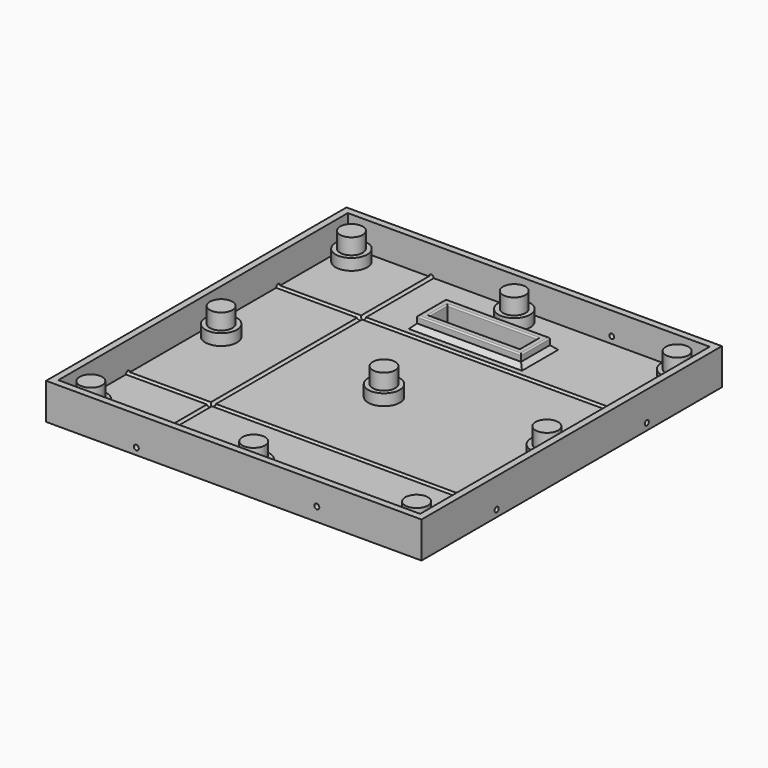
from build123d import *

# Parameters (mm, degrees)
SKETCH018_W     = 166
SKETCH018_H     = 166
PAD009_DEPTH    = 16
SKETCH019_W     = 160
SKETCH019_H     = 160
POCKET009_DEPTH = 13
SKETCH020_R     = 5
PAD010_DEPTH    = 12
SKETCH021_W     = 40
SKETCH021_H     = 10
POCKET010_DEPTH = 5
SKETCH022_W     = 46
SKETCH022_H     = 16
SKETCH022_W_2   = 40
SKETCH022_H_2   = 10
PAD011_DEPTH    = 5
CHAMFER001_SIZE = 2
FILLET004_R     = 0.6
SKETCH023_R     = 7
PAD012_DEPTH    = 5
SKETCH024_R     = 1.1
POCKET011_DEPTH = 166.001
SKETCH025_R     = 1.1
POCKET012_DEPTH = 167


with BuildPart() as part:
    # Sketch018 → Pad009 (new body)
    with BuildSketch(Plane.XY):
        with Locations((83, 83)):
            Rectangle(SKETCH018_W, SKETCH018_H)
    extrude(amount=PAD009_DEPTH)

    # Sketch019 (on Face6 of Pad009) → Pocket009 (cut)
    with BuildSketch(Plane.XY.offset(16)):
        with Locations((83, 83)):
            Rectangle(SKETCH019_W, SKETCH019_H)
    extrude(amount=-POCKET009_DEPTH, mode=Mode.SUBTRACT)

    # Sketch020 (on Face11 of Pocket009) → Pad010 (join)
    with BuildSketch(Plane.XY.offset(3)):
        with Locations((11, 155)):
            Circle(SKETCH020_R)
        with Locations((83, 155)):
            Circle(SKETCH020_R)
        with Locations((155, 155)):
            Circle(SKETCH020_R)
        with Locations((11, 83)):
            Circle(SKETCH020_R)
        with Locations((83, 83)):
            Circle(SKETCH020_R)
        with Locations((155, 83)):
            Circle(SKETCH020_R)
        with Locations((11, 11)):
            Circle(SKETCH020_R)
        with Locations((83, 11)):
            Circle(SKETCH020_R)
        with Locations((155, 11)):
            Circle(SKETCH020_R)
    extrude(amount=PAD010_DEPTH)

    # Sketch021 (on Face11 of Pad010) → Pocket010 (cut)
    with BuildSketch(Plane.XY.offset(3)):
        with Locations((83, 138)):
            Rectangle(SKETCH021_W, SKETCH021_H)
    extrude(amount=-POCKET010_DEPTH, mode=Mode.SUBTRACT)

    # Sketch022 (on Face15 of Pocket010) → Pad011 (join)
    with BuildSketch(Plane.XY.offset(3)):
        with Locations((83, 138)):
            Rectangle(SKETCH022_W, SKETCH022_H)
        with Locations((83, 138)):
            Rectangle(SKETCH022_W_2, SKETCH022_H_2, mode=Mode.SUBTRACT)
    extrude(amount=PAD011_DEPTH)

    # Chamfer001
    chamfer001_edges = [part.edges().sort_by_distance(p)[0] for p in [
        (83, 130, 3),
        (60, 138, 3),
        (106, 138, 3),
        (83, 146, 3),
    ]]
    chamfer(chamfer001_edges, length=CHAMFER001_SIZE)

    # Fillet004
    fillet004_edges = [part.edges().sort_by_distance(p)[0] for p in [
        (83, 146, 8),
        (106, 138, 8),
        (83, 130, 8),
        (60, 138, 8),
        (83, 143, 8),
        (103, 138, 8),
        (83, 133, 8),
        (63, 138, 8),
    ]]
    fillet(fillet004_edges, radius=FILLET004_R)

    # Sketch023 (on Face11 of Fillet004) → Pad012 (join)
    with BuildSketch(Plane.XY.offset(3)):
        with Locations((11, 155)):
            Circle(SKETCH023_R)
        with Locations((83, 155)):
            Circle(SKETCH023_R)
        with Locations((155, 155)):
            Circle(SKETCH023_R)
        with Locations((11, 83)):
            Circle(SKETCH023_R)
        with Locations((83, 83)):
            Circle(SKETCH023_R)
        with Locations((155, 83)):
            Circle(SKETCH023_R)
        with Locations((11, 11)):
            Circle(SKETCH023_R)
        with Locations((83, 11)):
            Circle(SKETCH023_R)
        with Locations((155, 11)):
            Circle(SKETCH023_R)
    extrude(amount=PAD012_DEPTH)

    # Sketch024 (on Face50 of Pad012) → Pocket011 (cut, through all)
    with BuildSketch(Plane.XZ):
        with Locations((39.899256, 3)):
            Circle(SKETCH024_R)
        with Locations((119.697768, 6)):
            Circle(SKETCH024_R)
    extrude(amount=-POCKET011_DEPTH, mode=Mode.SUBTRACT)

    # Sketch025 (on Face48 of Pocket011) → Pocket012 (cut)
    with BuildSketch(Plane.YZ.offset(166)):
        with Locations((41.5, 3)):
            Circle(SKETCH025_R)
        with Locations((124.5, 3)):
            Circle(SKETCH025_R)
    extrude(amount=-POCKET012_DEPTH, mode=Mode.SUBTRACT)


solid = part.part
